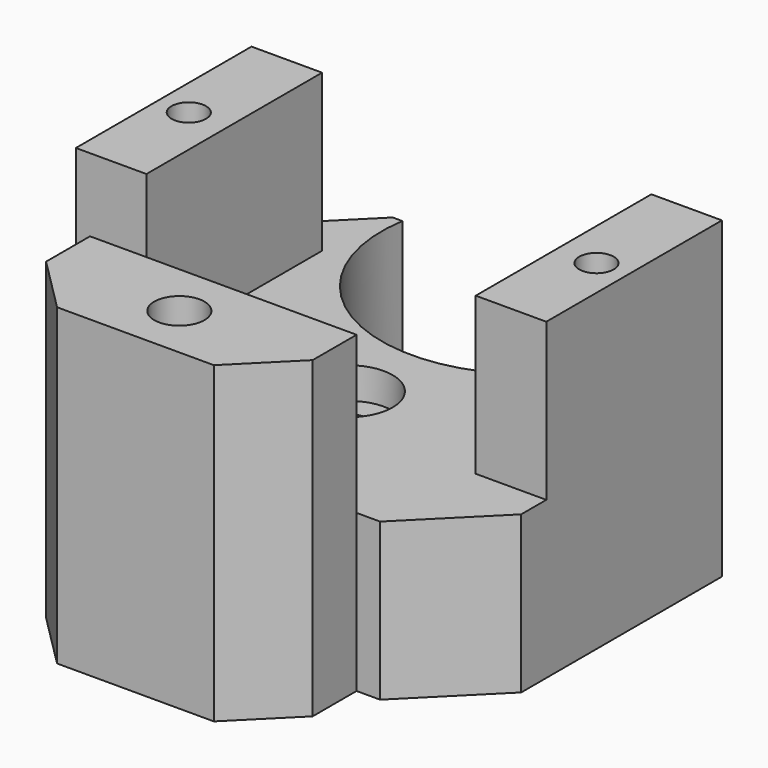
from build123d import *

# Parameters (mm, degrees)
CYLINDER014005832_R     = 2.2
CYLINDER014005832_DEPTH = 200
CYLINDER014005833_R     = 2.2
CYLINDER014005833_DEPTH = 200
BOX138_W                = 9
BOX138_H                = 28
BOX138_DEPTH            = 20
BOX136_W                = 9
BOX136_H                = 28
BOX136_DEPTH            = 20
CYLINDER014005829_R     = 5.6
CYLINDER014005829_DEPTH = 4
CYLINDER014005827_R     = 2.7
CYLINDER014005827_DEPTH = 200
CYLINDER014005826_R     = 19
CYLINDER014005826_DEPTH = 20
CYLINDER014005828_R     = 3.2
CYLINDER014005828_DEPTH = 200
CYLINDER014005830_R     = 5.6
CYLINDER014005830_DEPTH = 4
BOX119_W                = 60
BOX119_H                = 52
BOX119_DEPTH            = 20
CHAMFER019_SIZE         = 10
BOX135_W                = 34
BOX135_H                = 14
BOX135_DEPTH            = 40
CHAMFER015_SIZE         = 7


with BuildPart() as obj1:
    # Cylinder014005832 → Cylinder014005832 (new body)
    with BuildSketch(Plane(origin=(-26, -22, -140), x_dir=(1, 0, 0), z_dir=(0, 0, 1))):
        Circle(CYLINDER014005832_R)
    extrude(amount=CYLINDER014005832_DEPTH)


with BuildPart() as fusion435:
    # Cylinder014005833 → Cylinder014005833 (new body)
    with BuildSketch(Plane(origin=(26, -22, -140), x_dir=(1, 0, 0), z_dir=(0, 0, 1))):
        Circle(CYLINDER014005833_R)
    extrude(amount=CYLINDER014005833_DEPTH)

    # Fusion435: union obj1
    add(obj1.part)


with BuildPart() as krychle125:
    # Box138 → Box138 (new body)
    with BuildSketch(Plane(origin=(21, -35, -81), x_dir=(1, 0, 0), z_dir=(0, 0, 1))):
        with Locations((4.5, 14)):
            Rectangle(BOX138_W, BOX138_H)
    extrude(amount=BOX138_DEPTH)


with BuildPart() as krychle123:
    # Box136 → Box136 (new body)
    with BuildSketch(Plane(origin=(-30, -35, -81), x_dir=(1, 0, 0), z_dir=(0, 0, 1))):
        with Locations((4.5, 14)):
            Rectangle(BOX136_W, BOX136_H)
    extrude(amount=BOX136_DEPTH)


with BuildPart() as obj2:
    # Cylinder014005829 → Cylinder014005829 (new body)
    with BuildSketch(Plane(origin=(0, -29, -97), x_dir=(1, 0, 0), z_dir=(0, 0, 1))):
        Circle(CYLINDER014005829_R)
    extrude(amount=CYLINDER014005829_DEPTH)


with BuildPart() as obj3:
    # Cylinder014005827 → Cylinder014005827 (new body)
    with BuildSketch(Plane(origin=(0, -29, -200), x_dir=(1, 0, 0), z_dir=(0, 0, 1))):
        Circle(CYLINDER014005827_R)
    extrude(amount=CYLINDER014005827_DEPTH)


with BuildPart() as obj4:
    # Cylinder014005826 → Cylinder014005826 (new body)
    with BuildSketch(Plane.XY.offset(-113)):
        Circle(CYLINDER014005826_R)
    extrude(amount=CYLINDER014005826_DEPTH)


with BuildPart() as obj5:
    # Cylinder014005828 → Cylinder014005828 (new body)
    with BuildSketch(Plane(origin=(0, -56, -200), x_dir=(1, 0, 0), z_dir=(0, 0, 1))):
        Circle(CYLINDER014005828_R)
    extrude(amount=CYLINDER014005828_DEPTH)


with BuildPart() as fusion442:
    # Cylinder014005830 → Cylinder014005830 (new body)
    with BuildSketch(Plane(origin=(0, -29, -113), x_dir=(1, 0, 0), z_dir=(0, 0, 1))):
        Circle(CYLINDER014005830_R)
    extrude(amount=CYLINDER014005830_DEPTH)

    # Fusion442: union obj2, obj3, obj4, obj5
    add(obj2.part)
    add(obj3.part)
    add(obj4.part)
    add(obj5.part)


with BuildPart() as chamfer019:
    # Box119 → Box119 (new body)
    with BuildSketch(Plane(origin=(-30, -49, -59), x_dir=(1, 0, 0), z_dir=(0, 0, 1))):
        with Locations((30, 26)):
            Rectangle(BOX119_W, BOX119_H)
    extrude(amount=BOX119_DEPTH)

    # Chamfer019
    chamfer019_edges = [chamfer019.edges().sort_by_distance(p)[0] for p in [
        (-30, -49, -49),
        (-30, 3, -49),
        (30, -49, -49),
        (30, 3, -49),
    ]]
    chamfer(chamfer019_edges, length=CHAMFER019_SIZE)


with BuildPart() as obj6:
    # Box135 → Box135 (new body)
    with BuildSketch(Plane(origin=(-17, -63, -59), x_dir=(1, 0, 0), z_dir=(0, 0, 1))):
        with Locations((17, 7)):
            Rectangle(BOX135_W, BOX135_H)
    extrude(amount=BOX135_DEPTH)

    # Chamfer015
    chamfer015_edges = [obj6.edges().sort_by_distance(p)[0] for p in [
        (-17, -63, -39),
        (17, -63, -39),
    ]]
    chamfer(chamfer015_edges, length=CHAMFER015_SIZE)

    # Fusion438: union Chamfer019
    add(chamfer019.part)


with BuildPart() as obj6_1:
    # Fusion438 placement: moved
    add(obj6.part.moved(Location((0, 0, -54))))

    # Cut061241: cut Fusion442
    add(fusion442.part, mode=Mode.SUBTRACT)


with BuildPart() as obj6_2:
    # Cut061241 placement: moved
    add(obj6_1.part.moved(Location((0, 0, 12))))

    # Fusion434: union Krychle125, Krychle123
    add(krychle125.part)
    add(krychle123.part)

    # Cut061305: cut Fusion435
    add(fusion435.part, mode=Mode.SUBTRACT)


with BuildPart() as obj6_3:
    # Cut061305 placement: moved
    add(obj6_2.part.moved(Location((0, 0, 2))))


solid = obj6_3.part
